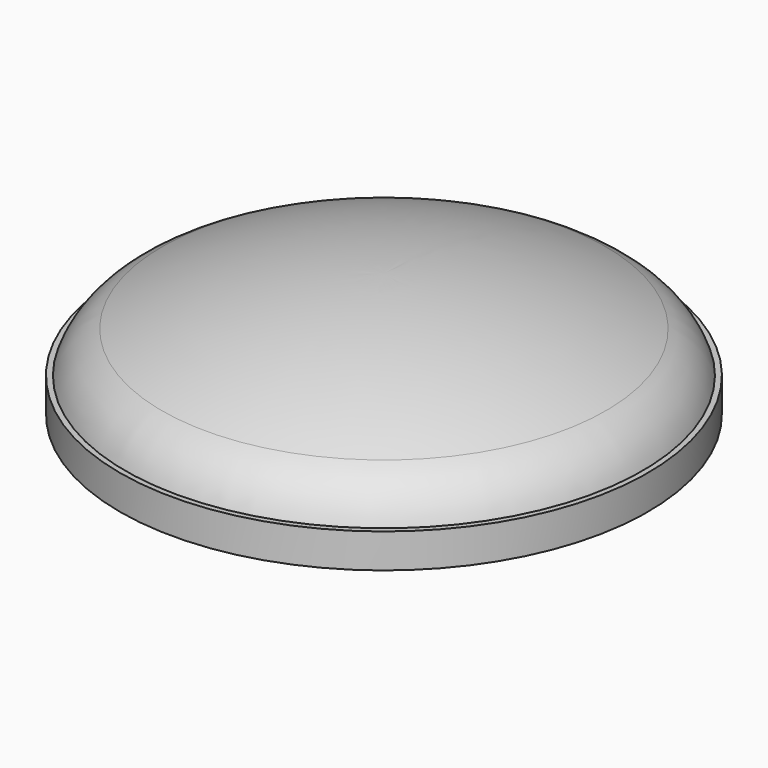
from build123d import *


with BuildPart() as f1:
    # F0 (on Right) → F1 (revolve)
    with BuildSketch(Plane.YZ):
        with BuildLine():
            ThreePointArc((0, 9), (20.988092, 6.72353), (41, 0))
            ThreePointArc((41, 0), (45.010989, -3.241758), (47, -8))
            Line((47, -8), (47.5, -8))
            Line((47.5, -8), (47.5, -12))
            Line((47.5, -12), (50, -12))
            Line((50, -12), (50, -5.5))
            Line((50, -5.5), (48.968017, -5.5))
            ThreePointArc((48.968017, -5.5), (46.317315, -0.893674), (42.047106, 2.270148))
            ThreePointArc((42.047106, 2.270148), (21.52411, 9.16539), (0, 11.5))
            Line((0, 11.5), (0, 9))
        make_face()
    revolve(axis=Axis((0, 0, 4.5), (0, 0, 1)))


solid = f1.part
